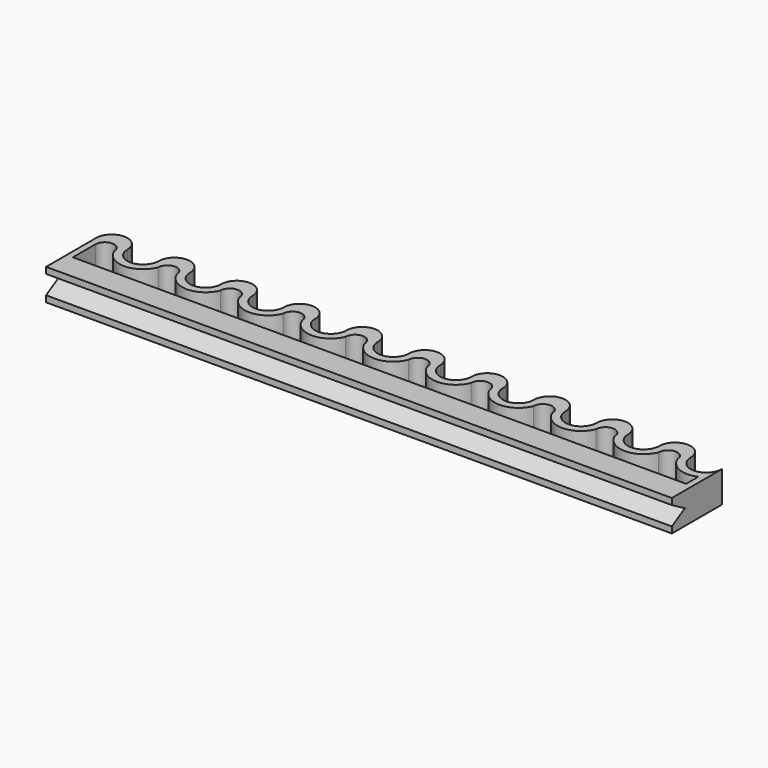
from build123d import *

# Parameters (mm, degrees)
F1_DEPTH = 10
F3_DEPTH = 200.001
F5_DEPTH = 10


with BuildPart() as f1:
    # F0 (on Top) → F1 (new body)
    with BuildSketch(Plane.XY):
        with BuildLine():
            ThreePointArc((20, 20), (15, 15), (10, 20))
            ThreePointArc((10, 20), (5, 25), (0, 20))
            Line((0, 20), (0, 0))
            Line((0, 0), (200, 0))
            Line((200, 0), (200, 20))
            ThreePointArc((200, 20), (195, 15), (190, 20))
            ThreePointArc((190, 20), (185, 25), (180, 20))
            ThreePointArc((180, 20), (175, 15), (170, 20))
            ThreePointArc((170, 20), (165, 25), (160, 20))
            ThreePointArc((160, 20), (155, 15), (150, 20))
            ThreePointArc((150, 20), (145, 25), (140, 20))
            ThreePointArc((140, 20), (135, 15), (130, 20))
            ThreePointArc((130, 20), (125, 25), (120, 20))
            ThreePointArc((120, 20), (115, 15), (110, 20))
            ThreePointArc((110, 20), (105, 25), (100, 20))
            ThreePointArc((100, 20), (95, 15), (90, 20))
            ThreePointArc((90, 20), (85, 25), (80, 20))
            ThreePointArc((80, 20), (75, 15), (70, 20))
            ThreePointArc((70, 20), (65, 25), (60, 20))
            ThreePointArc((60, 20), (55, 15), (50, 20))
            ThreePointArc((50, 20), (45, 25), (40, 20))
            ThreePointArc((40, 20), (35, 15), (30, 20))
            ThreePointArc((30, 20), (25, 25), (20, 20))
        make_face()
    extrude(amount=F1_DEPTH)

    # F2 (on face) → F3 (cut, through all)
    with BuildSketch(Plane(origin=(0, 0, 0), x_dir=(0, -1, 0), z_dir=(-1, 0, 0))):
        Polygon((0, 2), (0, 8), (-5.196152, 5), align=None)
    extrude(amount=-F3_DEPTH, mode=Mode.SUBTRACT)

    # F4 (on face) → F5 (cut, through all)
    with BuildSketch(Plane.XY.offset(10)):
        with BuildLine():
            ThreePointArc((8, 17.196152), (5, 20.196152), (2, 17.196152))
            Line((2, 17.196152), (2, 8.196152))
            Line((2, 8.196152), (14.824948, 8.196152))
            Line((14.824948, 8.196152), (28, 8.196152))
            Line((28, 8.196152), (198, 8.196152))
            Line((198, 8.196152), (198, 13.081795))
            ThreePointArc((198, 13.081795), (192.130857, 13.026509), (188, 17.196152))
            ThreePointArc((188, 17.196152), (185, 20.196152), (182, 17.196152))
            ThreePointArc((182, 17.196152), (175, 12.459339), (168, 17.196152))
            ThreePointArc((168, 17.196152), (165, 20.196152), (162, 17.196152))
            ThreePointArc((162, 17.196152), (155, 12.459339), (148, 17.196152))
            ThreePointArc((148, 17.196152), (145, 20.196152), (142, 17.196152))
            ThreePointArc((142, 17.196152), (135, 12.459339), (128, 17.196152))
            ThreePointArc((128, 17.196152), (125, 20.196152), (122, 17.196152))
            ThreePointArc((122, 17.196152), (115, 12.459339), (108, 17.196152))
            ThreePointArc((108, 17.196152), (105, 20.196152), (102, 17.196152))
            ThreePointArc((102, 17.196152), (95, 12.459339), (88, 17.196152))
            ThreePointArc((88, 17.196152), (85, 20.196152), (82, 17.196152))
            ThreePointArc((82, 17.196152), (75, 12.459339), (68, 17.196152))
            ThreePointArc((68, 17.196152), (65, 20.196152), (62, 17.196152))
            ThreePointArc((62, 17.196152), (55, 12.459339), (48, 17.196152))
            ThreePointArc((48, 17.196152), (45, 20.196152), (42, 17.196152))
            ThreePointArc((42, 17.196152), (35, 12.459339), (28, 17.196152))
            ThreePointArc((28, 17.196152), (25, 20.196152), (22, 17.196152))
            ThreePointArc((22, 17.196152), (15, 12.459339), (8, 17.196152))
        make_face()
    extrude(amount=-F5_DEPTH, mode=Mode.SUBTRACT)


solid = f1.part
